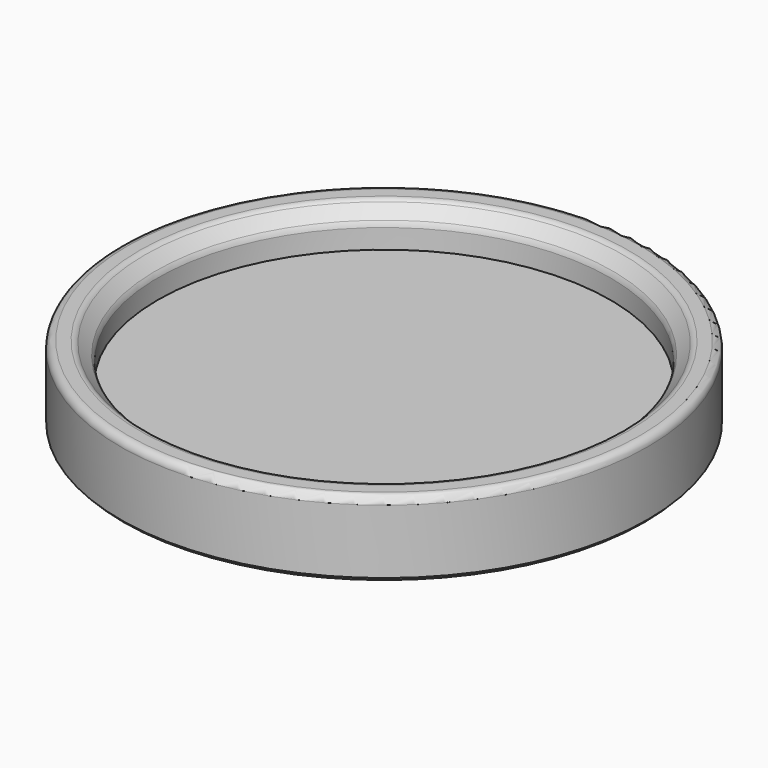
from build123d import *

# Parameters (mm, degrees)
F0_R     = 30
F1_DEPTH = 5
F0_R_2   = 35
F2_DEPTH = 10
F3_SIZE  = 2
F4_R     = 1
F5_SIZE  = 0.5


with BuildPart() as f1:
    # F0 (on Top) → F1 (new body)
    with BuildSketch(Plane.XY):
        Circle(F0_R)
    extrude(amount=F1_DEPTH)

    # F0 (on Top) → F2 (join)
    with BuildSketch(Plane.XY):
        Circle(F0_R_2)
        Circle(F0_R, mode=Mode.SUBTRACT)
    extrude(amount=F2_DEPTH)

    # F3
    f3_edges = [f1.edges().sort_by_distance(p)[0] for p in [
        (-30, 0, 10),
    ]]
    chamfer(f3_edges, length=F3_SIZE)

    # F4
    f4_edges = [f1.edges().sort_by_distance(p)[0] for p in [
        (-30, 0, 8),
        (-32, 0, 10),
        (-35, 0, 10),
    ]]
    fillet(f4_edges, radius=F4_R)

    # F5
    f5_edges = [f1.edges().sort_by_distance(p)[0] for p in [
        (-35, 0, 0),
    ]]
    chamfer(f5_edges, length=F5_SIZE)


solid = f1.part
